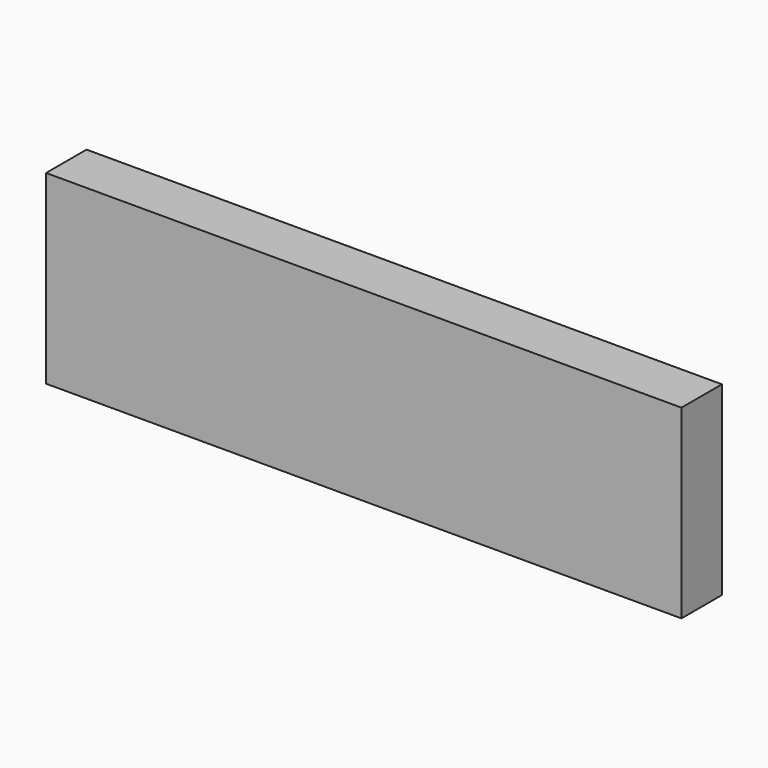
from build123d import *

# Parameters (mm, degrees)
SKETCH_W  = 226
SKETCH_H  = 66
PAD_DEPTH = 18


with BuildPart() as part:
    # Sketch → Pad (new body)
    with BuildSketch(Plane.XZ):
        with Locations((-113, 33)):
            Rectangle(SKETCH_W, SKETCH_H)
    extrude(amount=PAD_DEPTH)


solid = part.part
